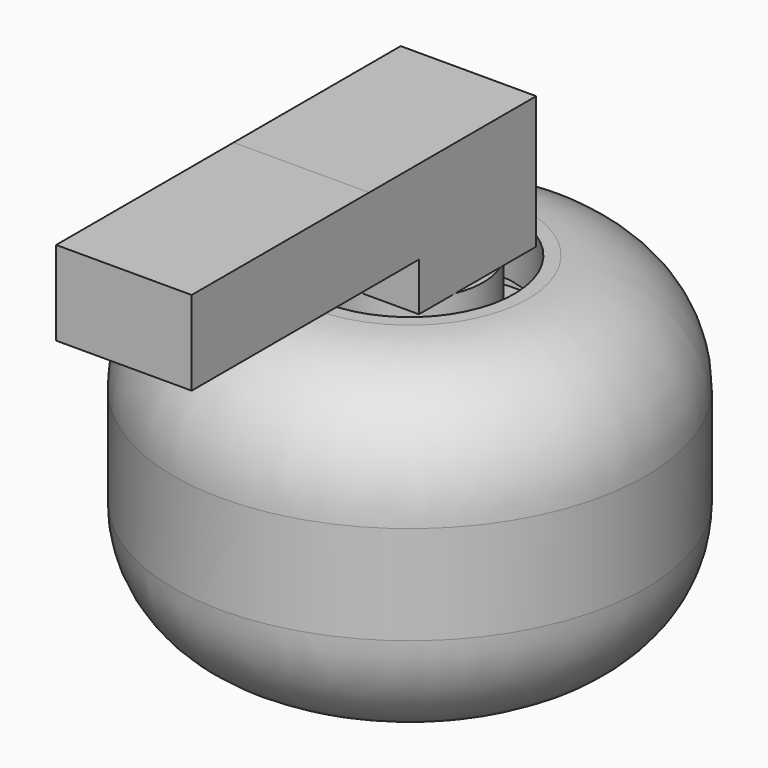
from build123d import *

# Parameters (mm, degrees)
F0_W     = 12.7
F0_H     = 8.480302
F0_W_2   = 2.917401
F0_H_2   = 5.417818
F0_W_3   = 20.792763
F0_H_3   = 7.896875
F2_DEPTH = 6.35
F3_R     = 11.037784


with BuildPart() as f1:
    # F0 (on Right) → F1 (revolve)
    with BuildSketch(Plane.YZ):
        with Locations((-6.35, 13.277427)):
            Rectangle(F0_W, F0_H)
        Polygon((0, 20.122999), (0, 40.36338), (-6.868331, 40.36338), (-6.868331, 32.413691), (-12.7, 32.413691), (-12.7, 20.122999), align=None)
        with Locations((-11.2413, 37.654471)):
            Rectangle(F0_W_2, F0_H_2)
        Polygon((-12.7, 34.945562), (-12.7, 40.36338), (-22.106865, 40.36338), (-22.106865, 9.037276), (-12.7, 9.037276), (-12.7, 17.517578), (-15.659478, 17.517578), (-15.659478, 34.945562), align=None)
    revolve(axis=Axis((0, 0, 24.700328), (0, 0, -1)))

    # F0 (on Right) → F2 (join, symmetric)
    with BuildSketch(Plane.YZ):
        Polygon((0, 40.36338), (6.868331, 40.36338), (6.868331, 52.778893), (-12.7, 52.778893), (-12.7, 44.882018), (-6.868331, 44.882018), (-6.868331, 40.36338), align=None)
        with Locations((-23.096381, 48.830455)):
            Rectangle(F0_W_3, F0_H_3)
    extrude(amount=F2_DEPTH, both=True)

    # F3
    f3_edges = [f1.edges().sort_by_distance(p)[0] for p in [
        (0, 22.106865, 9.037276),
        (0, 22.106865, 40.36338),
    ]]
    fillet(f3_edges, radius=F3_R)


solid = f1.part
